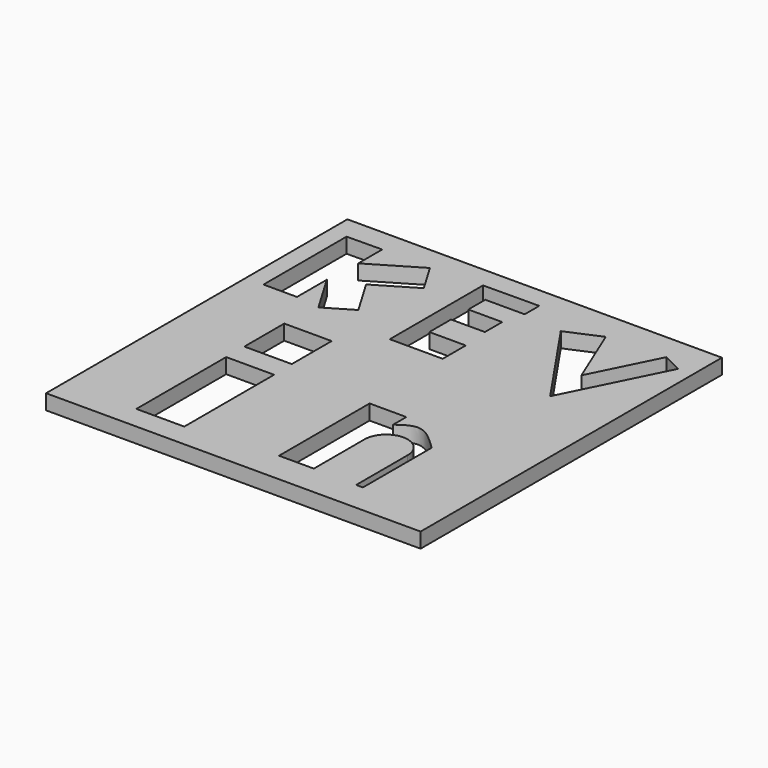
from build123d import *

# Parameters (mm, degrees)
F0_W     = 23.4549641609
F0_H     = 54.9651384354
F0_W_2   = 23.2180356979
F0_H_2   = 24.4026184082
F1_DEPTH = 7.39024207


with BuildPart() as f1:
    # F0 (on Top) → F1 (new body)
    with BuildSketch(Plane.XY):
        Polygon((91.9034779072, 91.4886146784), (-91.4886295795, 91.4886146784), (-91.4886295795, -92.9407924414), (51.8556982279, -92.9407924414), (91.9034779072, -92.9407924414), align=None)
        with Locations((-44.6886867285, -54.0328025818)):
            Rectangle(F0_W, F0_H, mode=Mode.SUBTRACT)
        with Locations((-44.80715096, -3.2137334347)):
            Rectangle(F0_W_2, F0_H_2, mode=Mode.SUBTRACT)
        with BuildLine():
            Line((51.8556982279, -36.1454337835), (51.8556982279, -78.1985074282))
            Line((51.8556982279, -78.1985074282), (48.5388189554, -78.1985074282))
            Line((48.5388189554, -78.1985074282), (48.5388189554, -46.6883182526))
            ThreePointArc((48.5388189554, -46.6883182526), (37.9959344864, -36.1454337835), (27.4530500174, -46.6883182526))
            Line((27.4530500174, -46.6883182526), (27.4530500174, -77.7246654034))
            Line((27.4530500174, -77.7246654034), (10.3949159384, -77.7246654034))
            Line((10.3949159384, -77.7246654034), (10.3949159384, -22.2856849432))
            Line((10.3949159384, -22.2856849432), (20.8193510771, -22.2856849432))
            Line((20.8193510771, -22.2856849432), (28.400734067, -22.2856849432))
            Line((28.400734067, -22.2856849432), (28.400734067, -30.340924859))
            add(Edge.make_bspline(
                [(28.400734067, -30.340924859), (31.5076210348, -28.1407343319), (38.5847283272, -23.128971871), (47.0863390798, -31.4675398046), (51.8556982279, -36.1454337835)],
                knots=[0, 0, 0, 0, 0.4390052916, 1, 1, 1, 1], degree=3))
        make_face(mode=Mode.SUBTRACT)
        Polygon((-82.7754288912, 29.2514711618), (-82.7754288912, 80.0784677267), (-65.4684112125, 80.2859216928), (-65.4684112125, 65.5828345476), (-41.6604202239, 79.7188261354), (-33.0427859329, 65.2049126071), (-52.2061320955, 53.8266782874), (-41.3031728603, 35.4637955985), (-54.5612573624, 27.5918096304), (-66.3863122463, 47.5076958537), (-66.3863122463, 29.2514711618), align=None, mode=Mode.SUBTRACT)
        Polygon((-16.8040543795, 24.0650400519), (-16.8040543795, 81.1157524586), (10.5802863836, 81.3232064247), (10.5802863836, 72.4025517702), (-8.7132304907, 72.4025517702), (-8.7132304907, 62.029697001), (7.8833401203, 62.029697001), (7.8833401203, 51.449380815), (-8.7132304907, 51.449380815), (-8.7132304907, 38.1721258163), (9.1280788183, 38.1721258163), (9.1280788183, 24.0650400519), align=None, mode=Mode.SUBTRACT)
        Polygon((30.0812572241, 70.1205208898), (46.4703738689, 77.1740674973), (59.0942201711, 46.4814044853), (75.0898461839, 78.6105626462), (84.642469883, 73.8547518849), (60.5774521828, 25.5172401667), align=None, mode=Mode.SUBTRACT)
    extrude(amount=F1_DEPTH)


solid = f1.part
